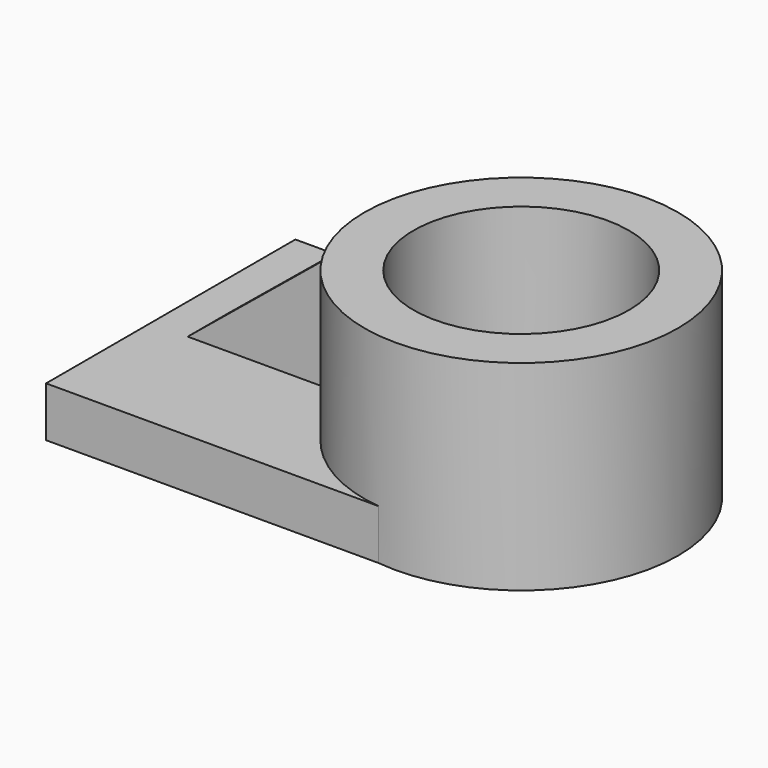
from build123d import *

# Parameters (mm, degrees)
F0_R     = 46.9907893429
F0_R_2   = 32.2922795361
F1_DEPTH = 60
F3_DEPTH = 15
F5_DEPTH = 7.5


with BuildPart() as f1:
    # F0 (on Top) → F1 (new body)
    with BuildSketch(Plane.XY):
        with Locations((50.2018332481, 0)):
            Circle(F0_R)
        with Locations((50.2018332481, 0)):
            Circle(F0_R_2, mode=Mode.SUBTRACT)
    extrude(amount=F1_DEPTH)

    # F2 (on face) → F3 (join)
    with BuildSketch(Plane(origin=(0, 0, 0), x_dir=(1, 0, 0), z_dir=(0, 0, -1))):
        with BuildLine():
            ThreePointArc((44.7961655187, -46.6788286), (3.2110439053, 0), (44.7961655187, 46.6788286))
            Line((44.7961655187, 46.6788286), (-54.8171773669, 46.6788286))
            Line((-54.8171773669, 46.6788286), (-54.8171773669, -46.6788286))
            Line((-54.8171773669, -46.6788286), (44.7961655187, -46.6788286))
        make_face()
    extrude(amount=-F3_DEPTH)

    # F4 (on Front) → F5 (join, symmetric)
    with BuildSketch(Plane.XZ):
        Polygon((4.0778061375, 54.1363731027), (-44.1848946292, 14.6238496527), (4.0778061375, 14.6238496527), align=None)
    extrude(amount=F5_DEPTH, both=True)


solid = f1.part
